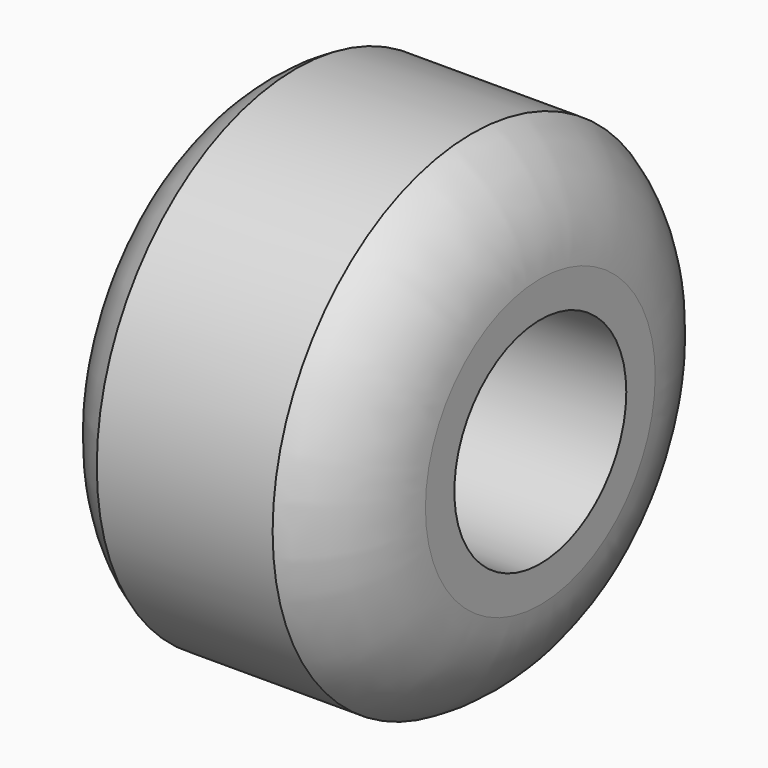
from build123d import *

# Parameters (mm, degrees)
F2_R     = 11
F3_DEPTH = 32.001


with BuildPart() as f1:
    # F0 (on Front) → F1 (revolve)
    with BuildSketch(Plane.XZ):
        with BuildLine():
            Line((-16, 0), (0, 0))
            Line((0, 0), (16, 0))
            Line((16, 0), (16, 14.7))
            ThreePointArc((16, 14.7), (13.930274, 21.027029), (9, 25.5))
            Line((9, 25.5), (0, 25.5))
            Line((0, 25.5), (-9, 25.5))
            ThreePointArc((-9, 25.5), (-13.930274, 21.027029), (-16, 14.7))
            Line((-16, 14.7), (-16, 0))
        make_face()
    revolve(axis=Axis((8, 0, 0), (1, 0, 0)))

    # F2 (on face) → F3 (cut, through all)
    with BuildSketch(Plane.YZ.offset(16)):
        Circle(F2_R)
    extrude(amount=-F3_DEPTH, mode=Mode.SUBTRACT)


solid = f1.part
